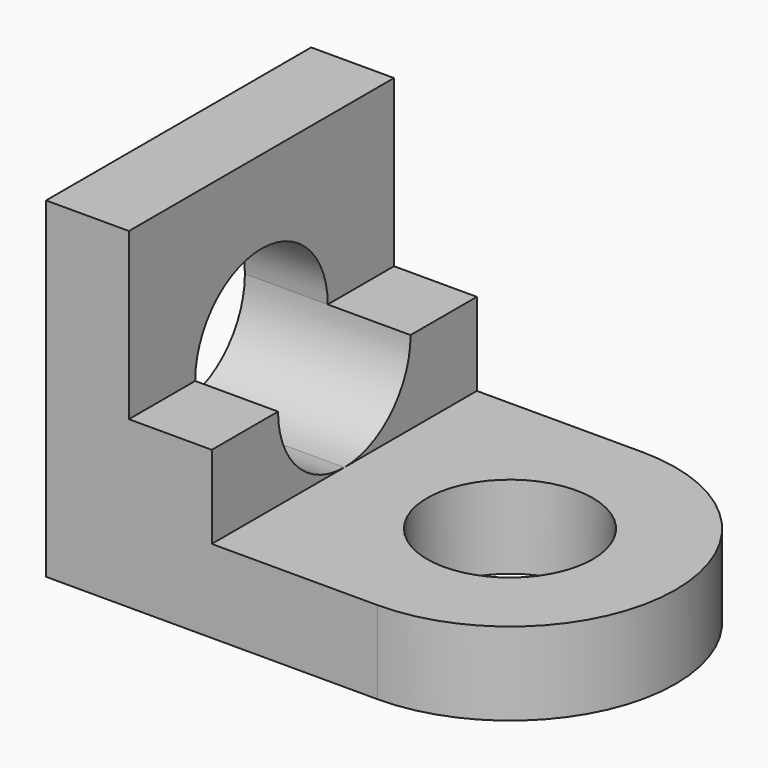
from build123d import *

# Parameters (mm, degrees)
F0_W     = 10
F0_H     = 40
F1_DEPTH = 40
F2_DEPTH = 20
F0_R     = 10
F3_DEPTH = 10
F5_DEPTH = 20.001


with BuildPart() as f1:
    # F0 (on Top) → F1 (new body)
    with BuildSketch(Plane.XY):
        with Locations((5, 20)):
            Rectangle(F0_W, F0_H)
    extrude(amount=F1_DEPTH)

    # F0 (on Top) → F2 (join)
    with BuildSketch(Plane.XY):
        with Locations((15, 20)):
            Rectangle(F0_W, F0_H)
    extrude(amount=F2_DEPTH)

    # F0 (on Top) → F3 (join)
    with BuildSketch(Plane.XY):
        with BuildLine():
            Line((20, 40), (20, 0))
            Line((20, 0), (40, 0))
            ThreePointArc((40, 0), (60, 20), (40, 40))
            Line((40, 40), (20, 40))
        make_face()
        with Locations((40, 20)):
            Circle(F0_R, mode=Mode.SUBTRACT)
    extrude(amount=F3_DEPTH)

    # F4 (on face) → F5 (cut, through all)
    with BuildSketch(Plane.YZ.offset(20)):
        with BuildLine():
            ThreePointArc((20, 10), (27.071068, 12.928932), (30, 20))
            Line((30, 20), (10, 20))
            ThreePointArc((10, 20), (12.928932, 12.928932), (20, 10))
        make_face()
        with BuildLine():
            Line((10, 20), (30, 20))
            ThreePointArc((30, 20), (20, 30), (10, 20))
        make_face()
    extrude(amount=-F5_DEPTH, mode=Mode.SUBTRACT)


solid = f1.part
